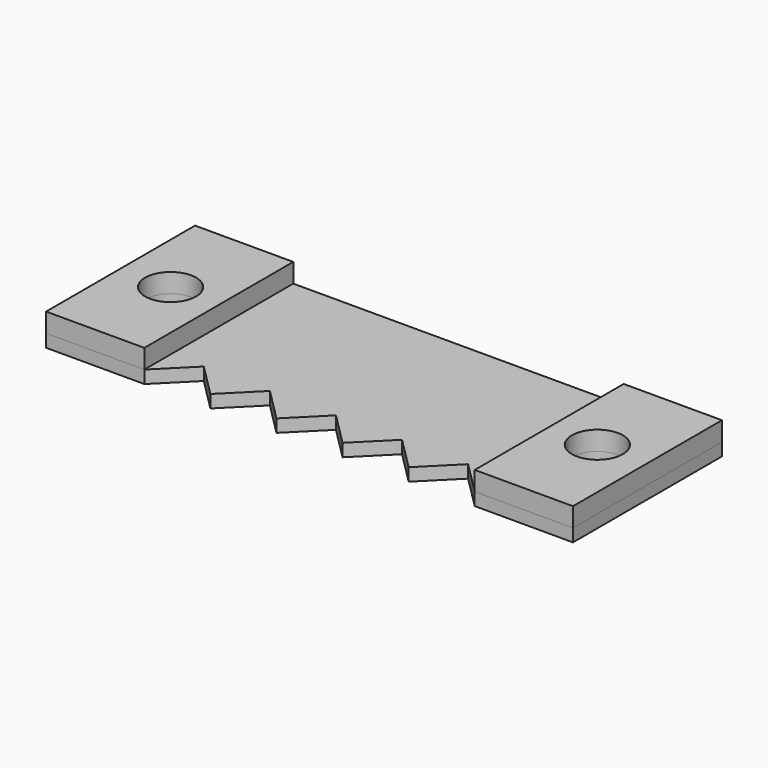
from build123d import *

# Parameters (mm, degrees)
F0_W     = 15.404647
F0_H     = 29.19423
F0_R     = 4
F1_DEPTH = 3
F2_DEPTH = 2


with BuildPart() as f1:
    # F0 (on Top) → F1 (new body)
    with BuildSketch(Plane.XY):
        with Locations((-33.607453, 0)):
            Rectangle(F0_W, F0_H)
        with Locations((-33.461764, 0)):
            Circle(F0_R, mode=Mode.SUBTRACT)
        with Locations((33.607453, 0)):
            Rectangle(F0_W, F0_H)
        with Locations((33.461764, 0)):
            Circle(F0_R, mode=Mode.SUBTRACT)
    extrude(amount=F1_DEPTH)


with BuildPart() as f2:
    # F0 (on Top) → F2 (new body)
    with BuildSketch(Plane.XY):
        with Locations((-33.607453, 0)):
            Rectangle(F0_W, F0_H)
        with Locations((-33.461764, 0)):
            Circle(F0_R, mode=Mode.SUBTRACT)
        Polygon((25.90513, 14.597115), (-25.90513, 14.597115), (-25.90513, -14.597115), (-20.724104, -9.416089), (-15.543078, -14.597115), (-10.362052, -9.416089), (-5.181026, -14.597115), (0, -9.416089), (5.181026, -14.597115), (10.362052, -9.416089), (15.543078, -14.597115), (20.724104, -9.416089), (25.90513, -14.597115), align=None)
        with Locations((33.607453, 0)):
            Rectangle(F0_W, F0_H)
        with Locations((33.461764, 0)):
            Circle(F0_R, mode=Mode.SUBTRACT)
    extrude(amount=-F2_DEPTH)


solid = Compound([f1.part, f2.part])
